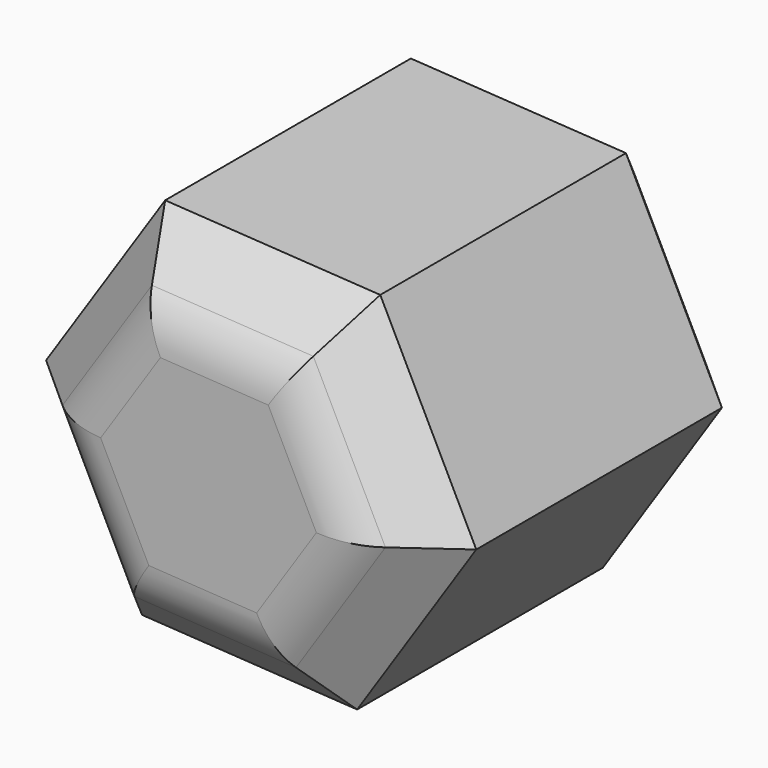
from build123d import *

# Parameters (mm, degrees)
F1_DEPTH      = 25.4
F1_DEPTH_BACK = 25.4
F2_SIZE       = 7.62
F3_R          = 7.62
F4_R          = 7.62


with BuildPart() as f1:
    # F0 (on Front) → F1 (new body, two sides)
    with BuildSketch(Plane.XZ) as f1_sk:
        Polygon((-20.073232, 22.875223), (-6.280771, 43.673378), (-17.396271, 66.017077), (-42.304232, 67.562621), (-56.096693, 46.764467), (-44.981193, 24.420768), align=None)
    extrude(amount=F1_DEPTH)
    extrude(f1_sk.sketch, amount=-F1_DEPTH_BACK)

    # F2
    f2_edges = [f1.edges().sort_by_distance(p)[0] for p in [
        (-29.850251, -25.4, 66.789849),
        (-11.838521, -25.4, 54.845227),
        (-13.177002, -25.4, 33.2743),
        (-49.200462, -25.4, 57.163544),
        (-50.538943, -25.4, 35.592617),
        (-32.527213, -25.4, 23.647995),
        (-13.177002, 25.4, 33.2743),
        (-11.838521, 25.4, 54.845227),
        (-29.850251, 25.4, 66.789849),
        (-49.200462, 25.4, 57.163544),
        (-50.538943, 25.4, 35.592617),
        (-32.527213, 25.4, 23.647995),
    ]]
    chamfer(f2_edges, length=F2_SIZE)

    # F3
    f3_edges = [f1.edges().sort_by_distance(p)[0] for p in [
        (-30.322166, -25.4, 59.184476),
        (-18.660925, -25.4, 51.451231),
        (-42.849974, -25.4, 52.952167),
        (-19.52749, -25.4, 37.485677),
        (-43.716539, -25.4, 38.986613),
        (-32.055298, -25.4, 31.253368),
    ]]
    fillet(f3_edges, radius=F3_R)

    # F4
    f4_edges = [f1.edges().sort_by_distance(p)[0] for p in [
        (-19.52749, 25.4, 37.485677),
        (-32.055298, 25.4, 31.253368),
        (-18.660925, 25.4, 51.451231),
        (-43.716539, 25.4, 38.986613),
        (-30.322166, 25.4, 59.184476),
        (-42.849974, 25.4, 52.952167),
    ]]
    fillet(f4_edges, radius=F4_R)


solid = f1.part
